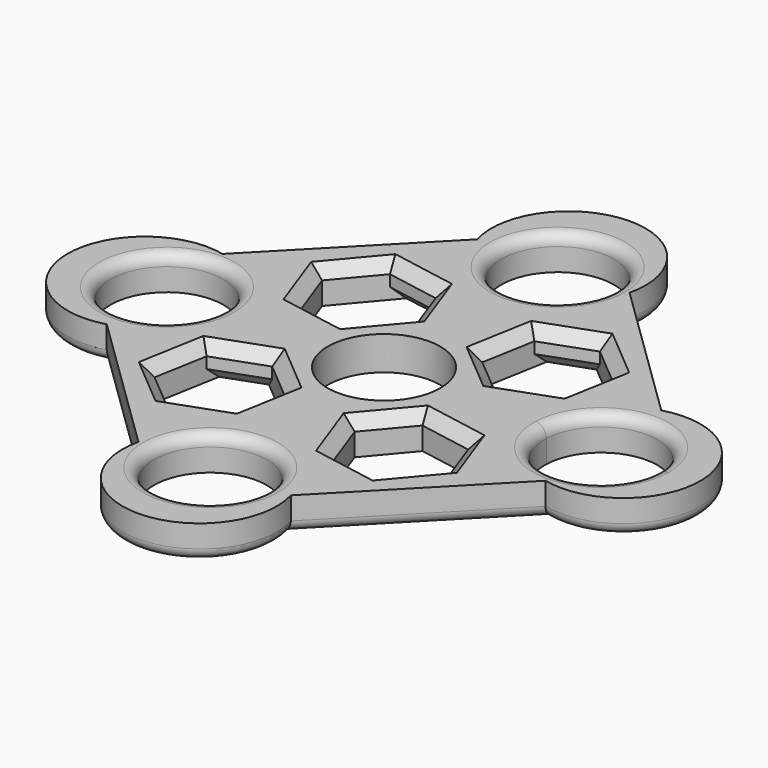
from build123d import *

# Parameters (mm, degrees)
F0_R     = 12.7
F1_DEPTH = 7.62
F2_R     = 2.54
F3_SIZE  = 2.54
F4_R     = 2.54


with BuildPart() as f1:
    # F0 (on Top) → F1 (new body)
    with BuildSketch(Plane.XY):
        with BuildLine():
            Line((48.37284, 17.679679), (15.994035, 49.222519))
            ThreePointArc((15.994035, 49.222519), (-1.392049, 70.564139), (-17.679679, 48.37284))
            Line((-17.679679, 48.37284), (-49.222519, 15.994035))
            ThreePointArc((-49.222519, 15.994035), (-70.564139, -1.392049), (-48.37284, -17.679679))
            Line((-48.37284, -17.679679), (-15.994035, -49.222519))
            ThreePointArc((-15.994035, -49.222519), (1.392049, -70.564139), (17.679679, -48.37284))
            Line((17.679679, -48.37284), (49.222519, -15.994035))
            ThreePointArc((49.222519, -15.994035), (70.564139, 1.392049), (48.37284, 17.679679))
        make_face()
        Polygon((-9.42494, -16.913068), (-11.420074, -28.110052), (-18.108844, -30.53093), (-22.878512, -32.257223), (-32.199286, -24.40751), (-30.061622, -12.410627), (-18.603184, -8.263456), (-9.28241, -16.113169), align=None, mode=Mode.SUBTRACT)
        with Locations((0, -48.945919)):
            Circle(F0_R, mode=Mode.SUBTRACT)
        Polygon((16.113169, -9.28241), (28.110052, -11.420074), (32.257223, -22.878512), (24.40751, -32.199286), (12.410627, -30.061622), (8.263456, -18.603184), align=None, mode=Mode.SUBTRACT)
        with Locations((-48.945919, 0)):
            Circle(F0_R, mode=Mode.SUBTRACT)
        Polygon((-24.40751, 32.199286), (-12.410627, 30.061622), (-8.263456, 18.603184), (-16.113169, 9.28241), (-28.110052, 11.420074), (-32.257223, 22.878512), align=None, mode=Mode.SUBTRACT)
        Circle(F0_R, mode=Mode.SUBTRACT)
        Polygon((9.28241, 16.113169), (11.420074, 28.110052), (22.878512, 32.257223), (32.199286, 24.40751), (30.061622, 12.410627), (18.603184, 8.263456), (16.618772, 9.934677), align=None, mode=Mode.SUBTRACT)
        with BuildLine():
            ThreePointArc((36.255199, 0.48543), (49.188678, 12.69768), (61.645919, 0))
            ThreePointArc((61.645919, 0), (48.703159, -12.69768), (36.255199, 0.48543))
        make_face(mode=Mode.SUBTRACT)
        with Locations((0, 48.945919)):
            Circle(F0_R, mode=Mode.SUBTRACT)
    extrude(amount=F1_DEPTH)

    # F2
    f2_edges = [f1.edges().sort_by_distance(p)[0] for p in [
        (-32.183437, -33.451099, 0),
        (-70.564139, -1.392049, 0),
        (1.392049, -70.564139, 0),
        (-33.451099, 32.183437, 0),
        (-1.392049, 70.564139, 0),
        (32.183437, 33.451099, 0),
        (70.564139, 1.392049, 0),
        (33.451099, -32.183437, 0),
    ]]
    fillet(f2_edges, radius=F2_R)

    # F3
    f3_edges = [f1.edges().sort_by_distance(p)[0] for p in [
        (-18.409069, 31.130454, 0),
        (-22.111611, 10.351242, 7.62),
        (-30.183638, 17.149293, 7.62),
        (-12.188312, 13.942797, 7.62),
        (-18.409069, 31.130454, 7.62),
        (-10.337041, 24.332403, 7.62),
        (17.149293, 30.183638, 0),
        (10.351242, 22.111611, 7.62),
        (13.942797, 12.188312, 7.62),
        (24.332403, 10.337041, 7.62),
        (31.130454, 18.409069, 0),
        (27.538899, 28.332367, 7.62),
        (31.130454, 18.409069, 7.62),
        (17.149293, 30.183638, 7.62),
        (22.111611, -10.351242, 7.62),
        (30.183638, -17.149293, 7.62),
        (28.332367, -27.538899, 0),
        (28.332367, -27.538899, 7.62),
        (18.409069, -31.130454, 7.62),
        (10.337041, -24.332403, 7.62),
        (12.188312, -13.942797, 7.62),
        (-24.332403, -10.337041, 0),
        (-24.332403, -10.337041, 7.62),
        (-10.351242, -22.111611, 7.62),
        (-13.942797, -12.188312, 7.62),
        (-17.149293, -30.183638, 7.62),
        (-27.538899, -28.332367, 7.62),
        (-31.130454, -18.409069, 7.62),
        (-28.332367, 27.538899, 7.62),
    ]]
    chamfer(f3_edges, length=F3_SIZE)

    # F4
    f4_edges = [f1.edges().sort_by_distance(p)[0] for p in [
        (-61.645919, 0, 7.62),
        (-12.7, -48.945919, 7.62),
        (-12.7, 48.945919, 7.62),
        (61.636638, -0.48543, 7.62),
    ]]
    fillet(f4_edges, radius=F4_R)


solid = f1.part
